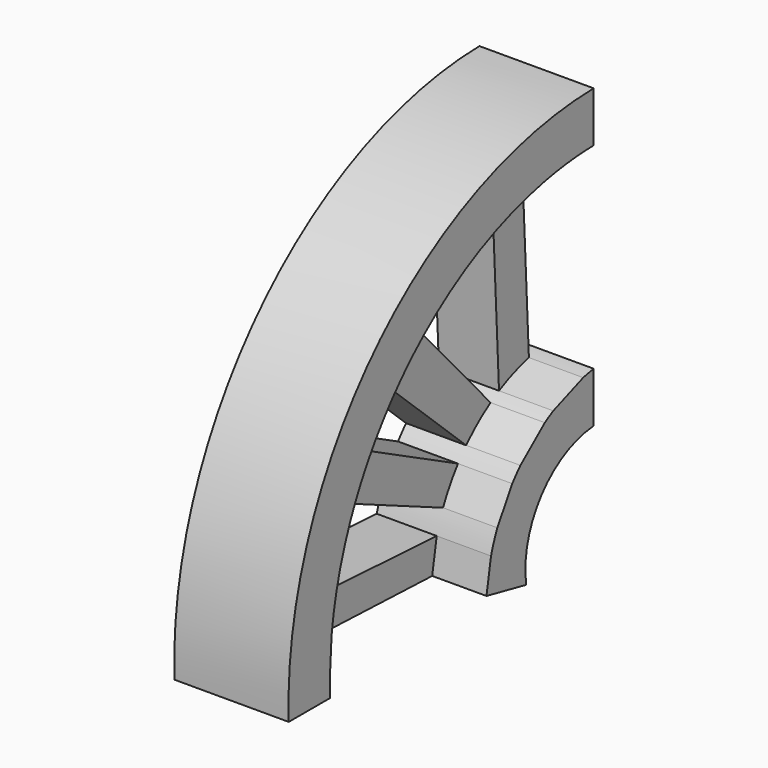
from build123d import *

# Parameters (mm, degrees)
F1_DEPTH = 25.4
F2_DEPTH = 13.335


with BuildPart() as f1:
    # F0 (on Right) → F1 (new body)
    with BuildSketch(Plane.YZ):
        with BuildLine():
            ThreePointArc((-42.689884, -25.134478), (-43.035144, -29.196331), (-43.158014, -33.27098))
            Line((-43.158014, -33.27098), (-42.689884, -25.134478))
        make_face()
        with BuildLine():
            ThreePointArc((25.088968, 40.848158), (27.607723, 41.020571), (30.130869, 41.107657))
            Line((30.130869, 41.107657), (30.130869, 52.283657))
            ThreePointArc((30.130869, 52.283657), (-31.074013, 25.348127), (-54.591173, -37.249824))
            Line((-54.591173, -37.249824), (-43.063008, -37.250999))
            ThreePointArc((-43.063008, -37.250999), (-43.137066, -35.261623), (-43.158014, -33.27098))
            ThreePointArc((-43.158014, -33.27098), (-43.035144, -29.196331), (-42.689884, -25.134478))
            ThreePointArc((-42.689884, -25.134478), (-40.798657, -14.866979), (-37.492553, -4.964052))
            ThreePointArc((-37.492553, -4.964052), (-35.294816, -0.143577), (-32.760507, 4.508768))
            ThreePointArc((-32.760507, 4.508768), (-28.268628, 11.238374), (-23.074364, 17.441937))
            ThreePointArc((-23.074364, 17.441937), (-18.504738, 21.931108), (-13.566839, 26.011707))
            ThreePointArc((-13.566839, 26.011707), (0.795724, 34.533587), (16.694157, 39.646853))
            ThreePointArc((16.694157, 39.646853), (20.874479, 40.366889), (25.088968, 40.848158))
        make_face()
        with BuildLine():
            ThreePointArc((11.381714, -37.249902), (15.629037, -21.411291), (30.130869, -13.756343))
            Line((30.130869, -13.756343), (30.130869, -2.580343))
            ThreePointArc((30.130869, -2.580343), (28.663334, -2.829671), (27.207736, -3.141207))
            Line((27.207736, -3.141207), (18.90523, -6.258952))
            ThreePointArc((18.90523, -6.258952), (17.717555, -6.916652), (16.556294, -7.619941))
            Line((16.556294, -7.619941), (9.772511, -13.218924))
            ThreePointArc((9.772511, -13.218924), (8.609524, -14.518996), (7.51279, -15.875426))
            Line((7.51279, -15.875426), (3.357359, -22.82311))
            ThreePointArc((3.357359, -22.82311), (2.393412, -25.191758), (1.605082, -27.624498))
            Line((1.605082, -27.624498), (0.345274, -34.942995))
            Line((0.345274, -34.942995), (11.381714, -37.249902))
        make_face()
    extrude(amount=F1_DEPTH)


with BuildPart() as f2:
    # F0 (on Right) → F2 (new body)
    with BuildSketch(Plane.YZ):
        with BuildLine():
            ThreePointArc((9.772511, -13.218924), (12.987723, -10.205366), (16.556294, -7.619941))
            Line((16.556294, -7.619941), (-13.566839, 26.011707))
            Line((-13.566839, 26.011707), (-23.074364, 17.441937))
            Line((-23.074364, 17.441937), (9.772511, -13.218924))
        make_face()
        with BuildLine():
            ThreePointArc((18.90523, -6.258952), (22.957281, -4.435906), (27.207736, -3.141207))
            Line((27.207736, -3.141207), (25.088968, 40.848158))
            Line((25.088968, 40.848158), (16.694157, 39.646853))
            Line((16.694157, 39.646853), (18.90523, -6.258952))
        make_face()
        with BuildLine():
            Line((-37.492553, -4.964052), (3.357359, -22.82311))
            ThreePointArc((3.357359, -22.82311), (5.233416, -19.228655), (7.51279, -15.875426))
            Line((7.51279, -15.875426), (-32.760507, 4.508768))
            Line((-32.760507, 4.508768), (-37.492553, -4.964052))
        make_face()
        Polygon((-43.158014, -33.27098), (0.345274, -34.942995), (1.605082, -27.624498), (-42.689884, -25.134478), align=None)
    extrude(amount=F2_DEPTH)


solid = Compound([f1.part, f2.part])
